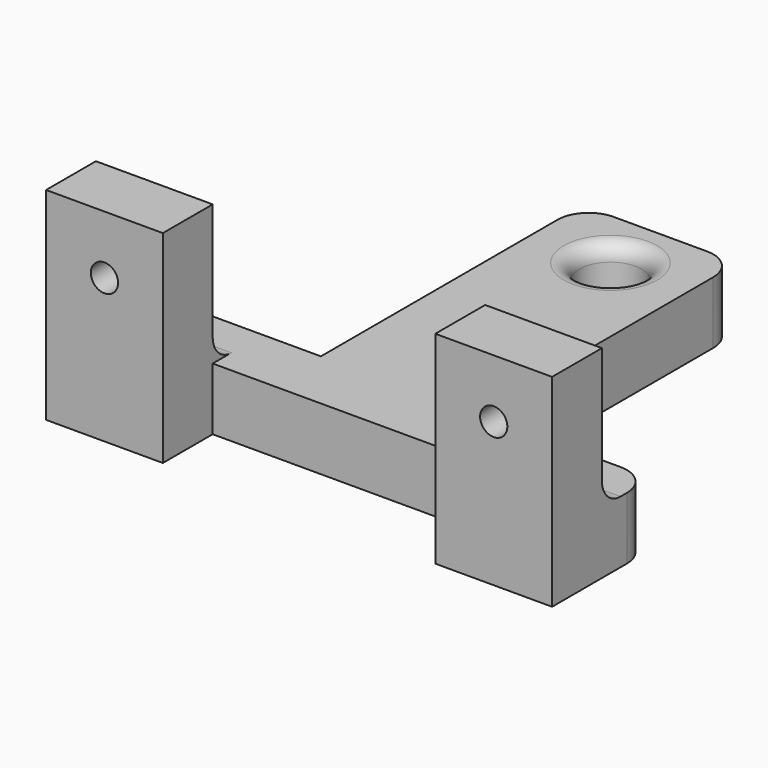
from build123d import *

# Parameters (mm, degrees)
SKETCH_R     = 4
PAD_DEPTH    = 8
SKETCH001_W  = 15
SKETCH001_H  = 8
PAD001_DEPTH = 18
SKETCH002_R  = 1.75
POCKET_DEPTH = 8.001
FILLET_R     = 2
FILLET001_R  = 2
FILLET002_R  = 4
FILLET003_R  = 3


with BuildPart() as part:
    # Sketch → Pad (new body)
    with BuildSketch(Plane.XY):
        Polygon((-32.5, 0), (-17.5, 0), (-17.5, 8), (17.5, 8), (17.5, 0), (32.5, 0), (32.5, 16), (10, 16), (10, 58), (-10, 58), (-10, 16), (-32.5, 16), align=None)
        with Locations((0, 50)):
            Circle(SKETCH_R, mode=Mode.SUBTRACT)
    extrude(amount=PAD_DEPTH)

    # Sketch001 (on Face15 of Pad) → Pad001 (join)
    with BuildSketch(Plane.XY.offset(8)):
        with Locations((-25, 4)):
            Rectangle(SKETCH001_W, SKETCH001_H)
        with Locations((25, 4)):
            Rectangle(SKETCH001_W, SKETCH001_H)
    extrude(amount=PAD001_DEPTH)

    # Sketch002 (on Face11 of Pad001) → Pocket (cut, through all)
    with BuildSketch(Plane(origin=(0, 8, 0), x_dir=(-1, 0, 0), z_dir=(0, 1, 0))):
        with Locations((-25, 18.5)):
            Circle(SKETCH002_R)
        with Locations((25, 18.5)):
            Circle(SKETCH002_R)
    extrude(amount=-POCKET_DEPTH, mode=Mode.SUBTRACT)

    # Fillet
    fillet_edges = [part.edges().sort_by_distance(p)[0] for p in [
        (-4, 50, 8),
    ]]
    fillet(fillet_edges, radius=FILLET_R)

    # Fillet001
    fillet001_edges = [part.edges().sort_by_distance(p)[0] for p in [
        (-4, 50, 0),
    ]]
    fillet(fillet001_edges, radius=FILLET001_R)

    # Fillet002
    fillet002_edges = [part.edges().sort_by_distance(p)[0] for p in [
        (-10, 58, 4),
        (10, 58, 4),
        (-32.5, 16, 4),
        (32.5, 16, 4),
    ]]
    fillet(fillet002_edges, radius=FILLET002_R)

    # Fillet003
    fillet003_edges = [part.edges().sort_by_distance(p)[0] for p in [
        (25, 8, 8),
        (-25, 8, 8),
    ]]
    fillet(fillet003_edges, radius=FILLET003_R)


solid = part.part
